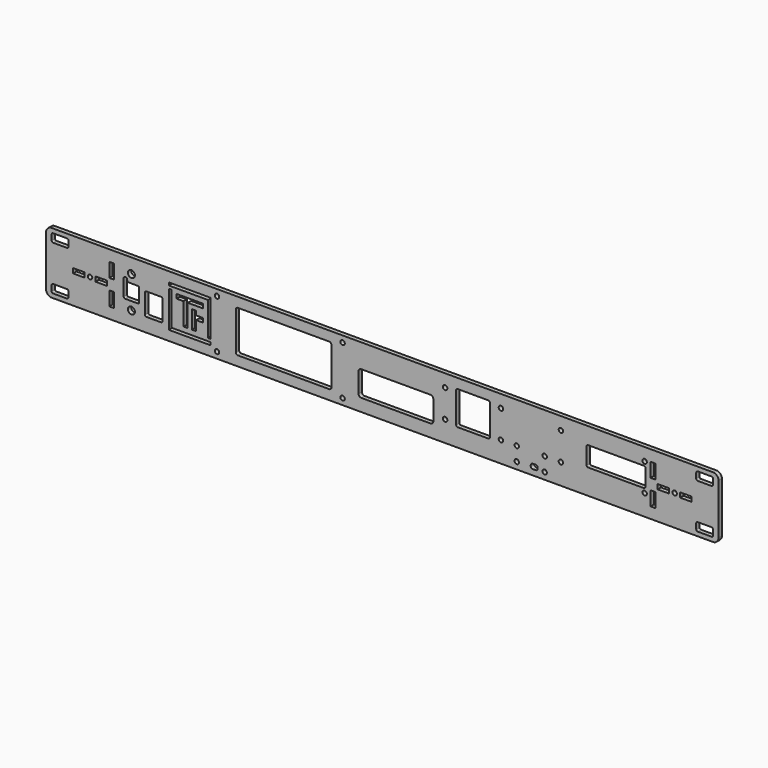
from build123d import *

# Parameters (mm, degrees)
SKETCH001002032_W   = 482
SKETCH001002032_H   = 44
SKETCH001002032_R   = 1.6
SKETCH001002032_W_2 = 8.2
SKETCH001002032_H_2 = 3.4
SKETCH001002032_W_3 = 3.4
SKETCH001002032_H_3 = 10.2
PAD026_DEPTH        = 3
SKETCH001002034_R   = 2.5
POCKET011_DEPTH     = 3
POCKET012_DEPTH     = 3
SKETCH001002036_R   = 1.6
POCKET013_DEPTH     = 3
POCKET014_DEPTH     = 3
SKETCH001002037_R   = 1.6
POCKET015_DEPTH     = 3
SKETCH001002038_R   = 1.6
POCKET016_DEPTH     = 3
FILLET037_R         = 4


with BuildPart() as part:
    # Sketch001002032 → Pad026 (new body)
    with BuildSketch(Plane.XZ):
        Rectangle(SKETCH001002032_W, SKETCH001002032_H)
        with Locations((209.5, 0)):
            Circle(SKETCH001002032_R, mode=Mode.SUBTRACT)
        with Locations((-209.5, 0)):
            Circle(SKETCH001002032_R, mode=Mode.SUBTRACT)
        with Locations((-217.5, 0)):
            Rectangle(SKETCH001002032_W_2, SKETCH001002032_H_2, mode=Mode.SUBTRACT)
        with Locations((-201.5, 0)):
            Rectangle(SKETCH001002032_W_2, SKETCH001002032_H_2, mode=Mode.SUBTRACT)
        with Locations((-194, 9)):
            Rectangle(SKETCH001002032_W_3, SKETCH001002032_H_3, mode=Mode.SUBTRACT)
        with Locations((-194, -9)):
            Rectangle(SKETCH001002032_W_3, SKETCH001002032_H_3, mode=Mode.SUBTRACT)
        with Locations((217.5, 0)):
            Rectangle(SKETCH001002032_W_2, SKETCH001002032_H_2, mode=Mode.SUBTRACT)
        with Locations((201.5, 0)):
            Rectangle(SKETCH001002032_W_2, SKETCH001002032_H_2, mode=Mode.SUBTRACT)
        with Locations((194, 9)):
            Rectangle(SKETCH001002032_W_3, SKETCH001002032_H_3, mode=Mode.SUBTRACT)
        with Locations((194, -9)):
            Rectangle(SKETCH001002032_W_3, SKETCH001002032_H_3, mode=Mode.SUBTRACT)
        with BuildLine():
            Line((-236, 19), (-226, 19))
            ThreePointArc((-225, 18), (-225.292893, 18.707107), (-226, 19))
            Line((-225, 18), (-225, 14))
            ThreePointArc((-226, 13), (-225.292893, 13.292893), (-225, 14))
            Line((-226, 13), (-236, 13))
            ThreePointArc((-237, 14), (-236.707107, 13.292893), (-236, 13))
            Line((-237, 14), (-237, 18))
            ThreePointArc((-236, 19), (-236.707107, 18.707107), (-237, 18))
        make_face(mode=Mode.SUBTRACT)
        with BuildLine():
            Line((-236, -13), (-226, -13))
            ThreePointArc((-225, -14), (-225.292893, -13.292893), (-226, -13))
            Line((-225, -14), (-225, -18))
            ThreePointArc((-226, -19), (-225.292893, -18.707107), (-225, -18))
            Line((-226, -19), (-236, -19))
            ThreePointArc((-237, -18), (-236.707107, -18.707107), (-236, -19))
            Line((-237, -18), (-237, -14))
            ThreePointArc((-236, -13), (-236.707107, -13.292893), (-237, -14))
        make_face(mode=Mode.SUBTRACT)
        with BuildLine():
            Line((226, 19), (236, 19))
            ThreePointArc((237, 18), (236.707107, 18.707107), (236, 19))
            Line((237, 18), (237, 14))
            ThreePointArc((236, 13), (236.707107, 13.292893), (237, 14))
            Line((236, 13), (226, 13))
            ThreePointArc((225, 14), (225.292893, 13.292893), (226, 13))
            Line((225, 14), (225, 18))
            ThreePointArc((226, 19), (225.292893, 18.707107), (225, 18))
        make_face(mode=Mode.SUBTRACT)
        with BuildLine():
            Line((226, -13), (236, -13))
            ThreePointArc((237, -14), (236.707107, -13.292893), (236, -13))
            Line((237, -14), (237, -18))
            ThreePointArc((236, -19), (236.707107, -18.707107), (237, -18))
            Line((236, -19), (226, -19))
            ThreePointArc((225, -18), (225.292893, -18.707107), (226, -19))
            Line((225, -18), (225, -14))
            ThreePointArc((226, -13), (225.292893, -13.292893), (225, -14))
        make_face(mode=Mode.SUBTRACT)
    extrude(amount=PAD026_DEPTH)

    # Sketch001002034 → Pocket011 (cut)
    with BuildSketch(Plane.XZ.offset(3)):
        with Locations((-179.85, 11.5)):
            Circle(SKETCH001002034_R)
        with Locations((-179.85, -11.5)):
            Circle(SKETCH001002034_R)
        with BuildLine():
            Line((-185.4, 7.05), (-185.4, -4.55))
            ThreePointArc((-185.4, -4.55), (-185.107107, -5.257107), (-184.4, -5.55))
            Line((-184.4, -5.55), (-175.3, -5.55))
            ThreePointArc((-175.3, -5.55), (-174.592893, -5.257107), (-174.3, -4.55))
            Line((-174.3, -4.55), (-174.3, 4.55))
            ThreePointArc((-174.3, 4.55), (-174.592893, 5.257107), (-175.3, 5.55))
            Line((-175.3, 5.55), (-181.4, 5.55))
            ThreePointArc((-182.9, 7.05), (-182.46066, 5.98934), (-181.4, 5.55))
            ThreePointArc((-182.9, 7.05), (-184.15, 8.3), (-185.4, 7.05))
        make_face()
        with BuildLine():
            Line((-170.15, 3.05), (-170.15, -11.05))
            ThreePointArc((-170.15, -11.05), (-169.857107, -11.757107), (-169.15, -12.05))
            Line((-169.15, -12.05), (-158.55, -12.05))
            ThreePointArc((-158.55, -12.05), (-157.842893, -11.757107), (-157.55, -11.05))
            Line((-157.55, -11.05), (-157.55, 3.05))
            ThreePointArc((-157.55, 3.05), (-157.842893, 3.757107), (-158.55, 4.05))
            Line((-158.55, 4.05), (-169.15, 4.05))
            ThreePointArc((-169.15, 4.05), (-169.857107, 3.757107), (-170.15, 3.05))
        make_face()
    extrude(amount=-POCKET011_DEPTH, mode=Mode.SUBTRACT)

    # Sketch001002033 → Pocket012 (cut)
    with BuildSketch(Plane.XZ.offset(3)):
        Polygon((-153, 15), (-123, 15), (-123, -11), (-125, -11), (-125, 13), (-153, 13), align=None)
        Polygon((-153, -15), (-123, -15), (-123, -13), (-151, -13), (-151, 11), (-153, 11), align=None)
        Polygon((-147.5, 9.5), (-147.5, 6.5), (-142.5, 6.5), (-142.5, -9.5), (-139.5, -9.5), (-139.5, 6.5), (-128.5, 6.5), (-128.5, 9.5), align=None)
        Polygon((-136.5, 3.5), (-136.5, -9.5), (-133.5, -9.5), (-133.5, -2.5), (-128.5, -2.5), (-128.5, 0.5), (-133.5, 0.5), (-133.5, 3.5), align=None)
    extrude(amount=-POCKET012_DEPTH, mode=Mode.SUBTRACT)

    # Sketch001002036 → Pocket013 (cut)
    with BuildSketch(Plane.XZ.offset(3)):
        with Locations((-118.5, -17.5)):
            Circle(SKETCH001002036_R)
        with Locations((-28.5, -17.5)):
            Circle(SKETCH001002036_R)
        with Locations((-28.5, 17.5)):
            Circle(SKETCH001002036_R)
        with Locations((-118.5, 17.5)):
            Circle(SKETCH001002036_R)
        with BuildLine():
            Line((-38, 15), (-103.5, 15))
            ThreePointArc((-103.5, 15), (-104.56066, 14.56066), (-105, 13.5))
            Line((-105, 13.5), (-105, -13.5))
            ThreePointArc((-105, -13.5), (-104.56066, -14.56066), (-103.5, -15))
            Line((-103.5, -15), (-38, -15))
            ThreePointArc((-38, -15), (-36.93934, -14.56066), (-36.5, -13.5))
            Line((-36.5, -13.5), (-36.5, 13.5))
            ThreePointArc((-36.5, 13.5), (-36.93934, 14.56066), (-38, 15))
        make_face()
    extrude(amount=-POCKET013_DEPTH, mode=Mode.SUBTRACT)

    # Sketch001002035 → Pocket014 (cut)
    with BuildSketch(Plane.XZ.offset(3)):
        with BuildLine():
            Line((-17.05, 3.05), (-17.05, -11.05))
            ThreePointArc((-17.05, -11.05), (-16.464214, -12.464214), (-15.05, -13.05))
            Line((-15.05, -13.05), (34.55, -13.05))
            ThreePointArc((34.55, -13.05), (35.964214, -12.464214), (36.55, -11.05))
            Line((36.55, -11.05), (36.55, 3.05))
            ThreePointArc((36.55, 3.05), (35.964214, 4.464214), (34.55, 5.05))
            Line((34.55, 5.05), (-15.05, 5.05))
            ThreePointArc((-15.05, 5.05), (-16.464214, 4.464214), (-17.05, 3.05))
        make_face()
    extrude(amount=-POCKET014_DEPTH, mode=Mode.SUBTRACT)

    # Sketch001002037 → Pocket015 (cut)
    with BuildSketch(Plane.XZ.offset(3)):
        with Locations((128, 12.95)):
            Circle(SKETCH001002037_R)
        with Locations((188, 12.95)):
            Circle(SKETCH001002037_R)
        with Locations((188, -7.05)):
            Circle(SKETCH001002037_R)
        with Locations((128, -7.05)):
            Circle(SKETCH001002037_R)
        with Locations((96.35, -7.05)):
            Circle(SKETCH001002037_R)
        with Locations((116.35, -7.05)):
            Circle(SKETCH001002037_R)
        with Locations((116.35, -17.05)):
            Circle(SKETCH001002037_R)
        with Locations((96.35, -17.05)):
            Circle(SKETCH001002037_R)
        with BuildLine():
            Line((107.85, -14.55), (109.85, -14.55))
            ThreePointArc((111.35, -16.05), (110.91066, -14.98934), (109.85, -14.55))
            Line((111.35, -16.05), (111.35, -16.55))
            ThreePointArc((109.85, -18.05), (110.91066, -17.61066), (111.35, -16.55))
            Line((109.85, -18.05), (107.85, -18.05))
            ThreePointArc((106.35, -16.55), (106.78934, -17.61066), (107.85, -18.05))
            Line((106.35, -16.55), (106.35, -16.05))
            ThreePointArc((107.85, -14.55), (106.78934, -14.98934), (106.35, -16.05))
        make_face()
        with BuildLine():
            Line((147.45, 10), (187.55, 10))
            ThreePointArc((188.55, 9), (188.257107, 9.707107), (187.55, 10))
            Line((188.55, 9), (188.55, -3.1))
            ThreePointArc((187.55, -4.1), (188.257107, -3.807107), (188.55, -3.1))
            Line((187.55, -4.1), (147.45, -4.1))
            ThreePointArc((146.45, -3.1), (146.742893, -3.807107), (147.45, -4.1))
            Line((146.45, -3.1), (146.45, 9))
            ThreePointArc((147.45, 10), (146.742893, 9.707107), (146.45, 9))
        make_face()
    extrude(amount=-POCKET015_DEPTH, mode=Mode.SUBTRACT)

    # Sketch001002038 → Pocket016 (cut)
    with BuildSketch(Plane.XZ.offset(3)):
        with Locations((45, 12.95)):
            Circle(SKETCH001002038_R)
        with Locations((85, 12.95)):
            Circle(SKETCH001002038_R)
        with Locations((85, -7.05)):
            Circle(SKETCH001002038_R)
        with Locations((45, -7.05)):
            Circle(SKETCH001002038_R)
        with BuildLine():
            Line((53.95, 15), (76.05, 15))
            ThreePointArc((77.05, 14), (76.757107, 14.707107), (76.05, 15))
            Line((77.05, 14), (77.05, -8.1))
            ThreePointArc((76.05, -9.1), (76.757107, -8.807107), (77.05, -8.1))
            Line((76.05, -9.1), (53.95, -9.1))
            ThreePointArc((52.95, -8.1), (53.242893, -8.807107), (53.95, -9.1))
            Line((52.95, -8.1), (52.95, 14))
            ThreePointArc((53.95, 15), (53.242893, 14.707107), (52.95, 14))
        make_face()
    extrude(amount=-POCKET016_DEPTH, mode=Mode.SUBTRACT)

    # Fillet037
    fillet037_edges = [part.edges().sort_by_distance(p)[0] for p in [
        (-241, -1.5, 22),
        (241, -1.5, 22),
        (-241, -1.5, -22),
        (241, -1.5, -22),
    ]]
    fillet(fillet037_edges, radius=FILLET037_R)


with BuildPart() as part_1:
    # Fillet037 placement: moved
    add(part.part.moved(Location((0, -100, 0))))


solid = part_1.part
